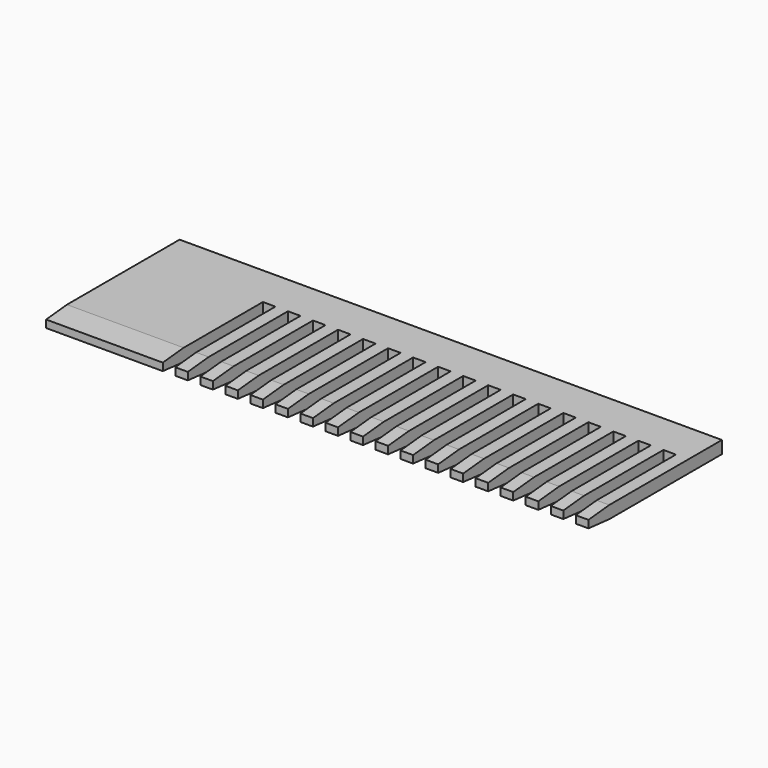
from build123d import *

# Parameters (mm, degrees)
F0_W     = 130
F0_H     = 40
F1_DEPTH = 3
F2_W     = 3
F2_H     = 30
F3_DEPTH = 25
F5_DEPTH = 130.001


with BuildPart() as f1:
    # F0 (on Top) → F1 (new body)
    with BuildSketch(Plane.XY):
        with Locations((-2.750717, 31.965788)):
            Rectangle(F0_W, F0_H)
    extrude(amount=F1_DEPTH)

    # F2 (on face) → F3 (cut)
    with BuildSketch(Plane.XY.offset(3)):
        with Locations((-38.276677, 26.965788)):
            Rectangle(F2_W, F2_H)
        with Locations((-32.276677, 26.965788)):
            Rectangle(F2_W, F2_H)
        with Locations((-26.276677, 26.965788)):
            Rectangle(F2_W, F2_H)
        with Locations((-20.276677, 26.965788)):
            Rectangle(F2_W, F2_H)
        with Locations((-14.276677, 26.965788)):
            Rectangle(F2_W, F2_H)
        with Locations((-8.276677, 26.965788)):
            Rectangle(F2_W, F2_H)
        with Locations((-2.276677, 26.965788)):
            Rectangle(F2_W, F2_H)
        with Locations((3.723323, 26.965788)):
            Rectangle(F2_W, F2_H)
        with Locations((9.723323, 26.965788)):
            Rectangle(F2_W, F2_H)
        with Locations((15.723323, 26.965788)):
            Rectangle(F2_W, F2_H)
        with Locations((21.723323, 26.965788)):
            Rectangle(F2_W, F2_H)
        with Locations((27.723323, 26.965788)):
            Rectangle(F2_W, F2_H)
        with Locations((33.723323, 26.965788)):
            Rectangle(F2_W, F2_H)
        with Locations((39.723323, 26.965788)):
            Rectangle(F2_W, F2_H)
        with Locations((45.723323, 26.965788)):
            Rectangle(F2_W, F2_H)
        with Locations((51.723323, 26.965788)):
            Rectangle(F2_W, F2_H)
        with Locations((57.723323, 26.965788)):
            Rectangle(F2_W, F2_H)
    extrude(amount=-F3_DEPTH, mode=Mode.SUBTRACT)

    # F4 (on face) → F5 (cut, through all)
    with BuildSketch(Plane(origin=(-67.750717, 0, 0), x_dir=(0, -1, 0), z_dir=(-1, 0, 0))):
        Polygon((-18.210504, 3), (-11.965788, 2.4), (-11.965788, 3), align=None)
        Polygon((-11.965788, 0), (-11.965788, 0.6), (-18.210504, 0), align=None)
    extrude(amount=-F5_DEPTH, mode=Mode.SUBTRACT)


solid = f1.part
